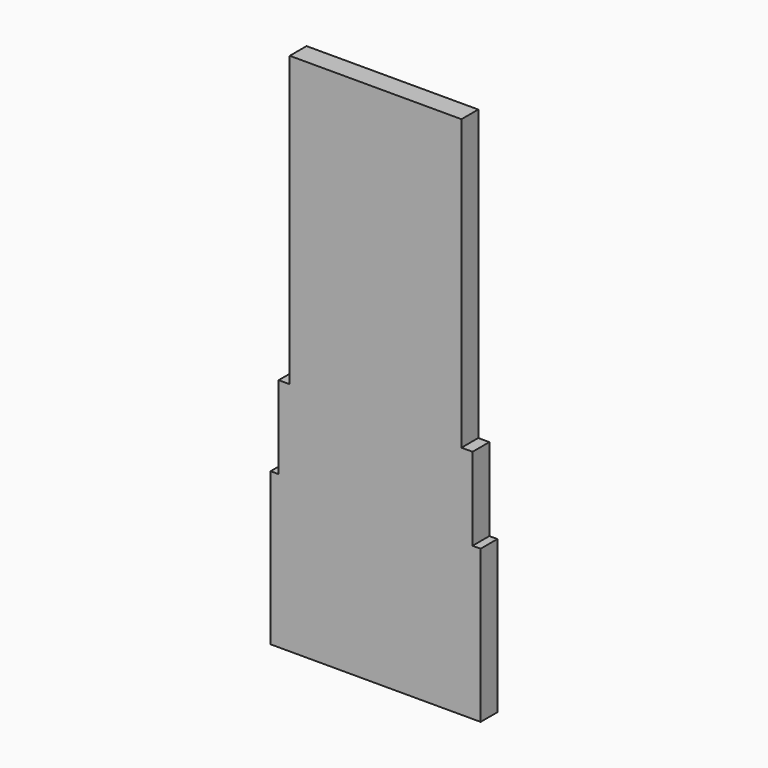
from build123d import *

# Parameters (mm, degrees)
F0_W     = 20.769432
F0_H     = 34.9758
F1_DEPTH = 2.54


with BuildPart() as f1:
    # F0 (on Front) → F1 (new body)
    with BuildSketch(Plane.XZ):
        Polygon((-12.7, 0), (0, 0), (12.7, 0), (12.7, 9.4996), (-12.7, 9.4996), align=None)
        Polygon((-12.7, 18.4404), (-12.7, 9.4996), (12.7, 9.4996), (12.7, 18.4404), (11.725585, 18.4404), (-11.725585, 18.4404), align=None)
        Polygon((-11.725585, 28.448), (-11.725585, 18.4404), (11.725585, 18.4404), (11.725585, 28.448), (10.384716, 28.448), (-10.384716, 28.448), align=None)
        with Locations((0, 45.9359)):
            Rectangle(F0_W, F0_H)
    extrude(amount=-F1_DEPTH)


solid = f1.part
